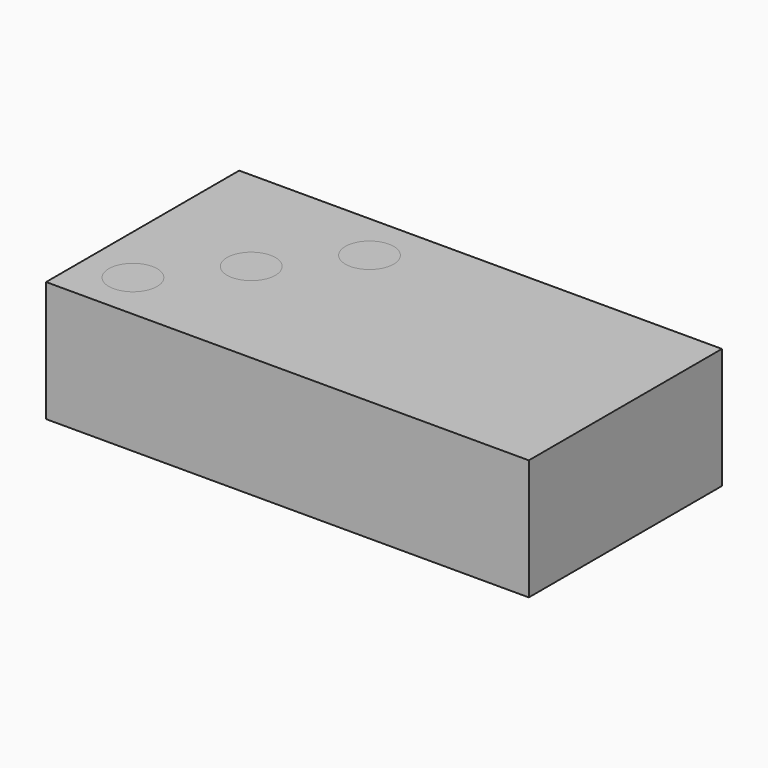
from build123d import *

# Parameters (mm, degrees)
BOX001_W     = 1
BOX001_H     = 18
BOX001_DEPTH = 6
BOX_W        = 40
BOX_H        = 20
BOX_DEPTH    = 10


with BuildPart() as cube001:
    # Box001 → Box001 (new body)
    with BuildSketch(Plane(origin=(18, 1, 5), x_dir=(1, 0, 0), z_dir=(0, 0, 1))):
        with Locations((0.5, 9)):
            Rectangle(BOX001_W, BOX001_H)
    extrude(amount=BOX001_DEPTH)


with BuildPart() as cube:
    # Box → Box (new body)
    with BuildSketch(Plane.XY):
        with Locations((20, 10)):
            Rectangle(BOX_W, BOX_H)
    extrude(amount=BOX_DEPTH)


with BuildPart() as cut:
    # Cut base: copy of Cube
    add(cube.part)

    # Cut: cut Cube001
    add(cube001.part, mode=Mode.SUBTRACT)


with BuildPart() as sphere004:
    # Sphere004 → Sphere004 (revolve)
    with BuildSketch(Plane(origin=(23, 4, 10), x_dir=(1, 0, 0), z_dir=(0, -1, 0))):
        with BuildLine():
            ThreePointArc((0, -2), (2, 0), (0, 2))
            Line((0, 2), (0, -2))
        make_face()
    revolve(axis=Axis((23, 4, 10), (0, 0, 1)))


with BuildPart() as sphere005:
    # Sphere005 → Sphere005 (revolve)
    with BuildSketch(Plane(origin=(36, 4, 10), x_dir=(1, 0, 0), z_dir=(0, -1, 0))):
        with BuildLine():
            ThreePointArc((0, -2), (2, 0), (0, 2))
            Line((0, 2), (0, -2))
        make_face()
    revolve(axis=Axis((36, 4, 10), (0, 0, 1)))


with BuildPart() as sphere006:
    # Sphere006 → Sphere006 (revolve)
    with BuildSketch(Plane(origin=(23, 16, 10), x_dir=(1, 0, 0), z_dir=(0, -1, 0))):
        with BuildLine():
            ThreePointArc((0, -2), (2, 0), (0, 2))
            Line((0, 2), (0, -2))
        make_face()
    revolve(axis=Axis((23, 16, 10), (0, 0, 1)))


with BuildPart() as sphere007:
    # Sphere007 → Sphere007 (revolve)
    with BuildSketch(Plane(origin=(36, 16, 10), x_dir=(1, 0, 0), z_dir=(0, -1, 0))):
        with BuildLine():
            ThreePointArc((0, -2), (2, 0), (0, 2))
            Line((0, 2), (0, -2))
        make_face()
    revolve(axis=Axis((36, 16, 10), (0, 0, 1)))


with BuildPart() as fusion001:
    # Sphere003 → Sphere003 (revolve)
    with BuildSketch(Plane(origin=(29, 10, 10), x_dir=(1, 0, 0), z_dir=(0, -1, 0))):
        with BuildLine():
            ThreePointArc((0, -2), (2, 0), (0, 2))
            Line((0, 2), (0, -2))
        make_face()
    revolve(axis=Axis((29, 10, 10), (0, 0, 1)))

    # Fusion001: union Sphere004, Sphere005, Sphere006, Sphere007
    add(sphere004.part)
    add(sphere005.part)
    add(sphere006.part)
    add(sphere007.part)


with BuildPart() as cut001:
    # Cut001 base: copy of Cube
    add(cube.part)

    # Cut001: cut Fusion001
    add(fusion001.part, mode=Mode.SUBTRACT)


with BuildPart() as sphere001:
    # Sphere001 → Sphere001 (revolve)
    with BuildSketch(Plane(origin=(9, 10, 10), x_dir=(1, 0, 0), z_dir=(0, -1, 0))):
        with BuildLine():
            ThreePointArc((0, -2), (2, 0), (0, 2))
            Line((0, 2), (0, -2))
        make_face()
    revolve(axis=Axis((9, 10, 10), (0, 0, 1)))


with BuildPart() as sphere:
    # Sphere → Sphere (revolve)
    with BuildSketch(Plane(origin=(4, 4, 10), x_dir=(1, 0, 0), z_dir=(0, -1, 0))):
        with BuildLine():
            ThreePointArc((0, -2), (2, 0), (0, 2))
            Line((0, 2), (0, -2))
        make_face()
    revolve(axis=Axis((4, 4, 10), (0, 0, 1)))


with BuildPart() as fusion:
    # Sphere002 → Sphere002 (revolve)
    with BuildSketch(Plane(origin=(14, 16, 10), x_dir=(1, 0, 0), z_dir=(0, -1, 0))):
        with BuildLine():
            ThreePointArc((0, -2), (2, 0), (0, 2))
            Line((0, 2), (0, -2))
        make_face()
    revolve(axis=Axis((14, 16, 10), (0, 0, 1)))

    # Fusion: union Sphere001, Sphere
    add(sphere001.part)
    add(sphere.part)


with BuildPart() as cut002:
    # Cut002 base: copy of Cube
    add(cube.part)

    # Cut002: cut Fusion
    add(fusion.part, mode=Mode.SUBTRACT)


solid = Compound([cut.part, cut001.part, cut002.part])
